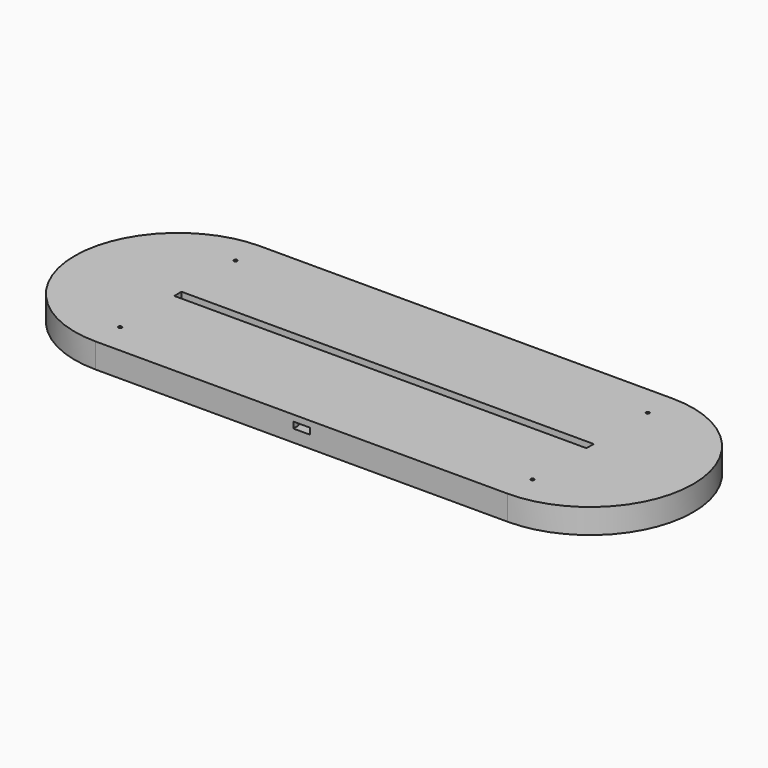
from build123d import *

# Parameters (mm, degrees)
PAD_DEPTH       = 3
PAD001_DEPTH    = 3
SKETCH002_W     = 209.08447
SKETCH002_H     = 4.18
PAD002_DEPTH    = 3
SKETCH003_W     = 26.3
SKETCH003_H     = 34.2
POCKET_DEPTH    = 3
SKETCH004_W     = 18
SKETCH004_H     = 25
POCKET001_DEPTH = 3
SKETCH005_W     = 14
SKETCH005_H     = 5
POCKET002_DEPTH = 6
SKETCH006_W     = 14
SKETCH006_H     = 3
POCKET003_DEPTH = 3
SKETCH007_W     = 8
SKETCH007_H     = 3
POCKET004_DEPTH = 3
SKETCH008_W     = 200
SKETCH008_H     = 4.4
PAD003_DEPTH    = 3
SKETCH009_R     = 0.8
POCKET005_DEPTH = 12


with BuildPart() as part:
    # Sketch → Pad (new body)
    with BuildSketch(Plane.XY):
        with BuildLine():
            ThreePointArc((-100, 50), (-150, 0), (-100, -50))
            Line((-100, -50), (100, -50))
            ThreePointArc((100, -50), (150, 0), (100, 50))
            Line((-100, 50), (100, 50))
        make_face()
    extrude(amount=PAD_DEPTH)

    # Sketch001 (on Face6 of Pad) → Pad001 (join)
    with BuildSketch(Plane.XY.offset(3)):
        with BuildLine():
            ThreePointArc((-100, 50), (-150, 0), (-100, -50))
            Line((-100, -50), (100, -50))
            ThreePointArc((100, -50), (150, 0), (100, 50))
            Line((-100, 50), (100, 50))
        make_face()
        with BuildLine():
            ThreePointArc((-100, 5), (-105, 0), (-100, -5))
            Line((-100, -5), (100, -5))
            ThreePointArc((100, -5), (105, 0), (100, 5))
            Line((-100, 5), (100, 5))
        make_face(mode=Mode.SUBTRACT)
    extrude(amount=PAD001_DEPTH)

    # Sketch002 (on Face9 of Pad001) → Pad002 (join)
    with BuildSketch(Plane.XY.offset(6)):
        with BuildLine():
            ThreePointArc((-100, 50), (-150, 0), (-100, -50))
            Line((-100, -50), (100, -50))
            ThreePointArc((100, -50), (150, 0), (100, 50))
            Line((-100, 50), (100, 50))
        make_face()
        Rectangle(SKETCH002_W, SKETCH002_H, mode=Mode.SUBTRACT)
    extrude(amount=PAD002_DEPTH)

    # Sketch003 (on Face13 of Pad002) → Pocket (cut)
    with BuildSketch(Plane.XY.offset(9)):
        with Locations((0, -29.9)):
            Rectangle(SKETCH003_W, SKETCH003_H)
    extrude(amount=-POCKET_DEPTH, mode=Mode.SUBTRACT)

    # Sketch004 (on Face27 of Pocket) → Pocket001 (cut)
    with BuildSketch(Plane.XY.offset(6)):
        with Locations((0, -25.3)):
            Rectangle(SKETCH004_W, SKETCH004_H)
    extrude(amount=-POCKET001_DEPTH, mode=Mode.SUBTRACT)

    # Sketch005 (on Face13 of Pocket001) → Pocket002 (cut)
    with BuildSketch(Plane.XY.offset(9)):
        with Locations((0, -10.3)):
            Rectangle(SKETCH005_W, SKETCH005_H)
    extrude(amount=-POCKET002_DEPTH, mode=Mode.SUBTRACT)

    # Sketch006 (on Face23 of Pocket002) → Pocket003 (cut)
    with BuildSketch(Plane.XZ.offset(7.8)):
        with Locations((0, 4.5)):
            Rectangle(SKETCH006_W, SKETCH006_H)
    extrude(amount=-POCKET003_DEPTH, mode=Mode.SUBTRACT)

    # Sketch007 (on Face13 of Pocket003) → Pocket004 (cut)
    with BuildSketch(Plane.XY.offset(9)):
        with Locations((0, -48.5)):
            Rectangle(SKETCH007_W, SKETCH007_H)
    extrude(amount=-POCKET004_DEPTH, mode=Mode.SUBTRACT)

    # Sketch008 (on Face15 of Pocket004) → Pad003 (join)
    with BuildSketch(Plane.XY.offset(9)):
        with BuildLine():
            ThreePointArc((-100, 50), (-150, 0), (-100, -50))
            Line((-100, -50), (100, -50))
            ThreePointArc((100, -50), (150, 0), (100, 50))
            Line((-100, 50), (100, 50))
        make_face()
        Rectangle(SKETCH008_W, SKETCH008_H, mode=Mode.SUBTRACT)
    extrude(amount=PAD003_DEPTH)

    # Sketch009 (on Face22 of Pad003) → Pocket005 (cut)
    with BuildSketch(Plane.XY.offset(12)):
        with Locations((-100, 35)):
            Circle(SKETCH009_R)
        with Locations((-100, -35)):
            Circle(SKETCH009_R)
        with Locations((100, 35)):
            Circle(SKETCH009_R)
        with Locations((100, -35)):
            Circle(SKETCH009_R)
    extrude(amount=-POCKET005_DEPTH, mode=Mode.SUBTRACT)


solid = part.part
